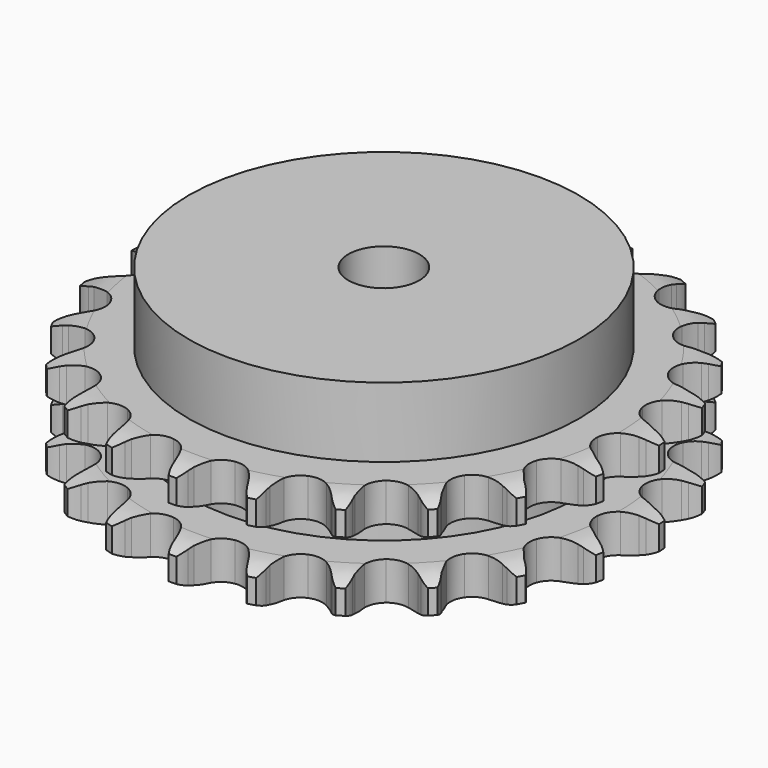
from build123d import *

# Parameters (mm, degrees)
PAD_DEPTH         = 30.3
SKETCH001_R       = 55
PAD001_DEPTH      = 50
SKETCH002_R       = 10
POCKET_DEPTH      = 0.001
POCKET_DEPTH_BACK = 50.001


with BuildPart() as part:
    # Sprocket → Pad (new body)
    with BuildSketch(Plane.XY):
        with BuildLine():
            ThreePointArc((-10.340591, 75.233389), (-8.706627, 73.474325), (-7.542965, 71.374317))
            Line((-7.542965, 71.374317), (-6.957807, 69.929158))
            ThreePointArc((-6.957807, 69.929158), (-6.022333, 68.005597), (-4.834996, 66.226432))
            ThreePointArc((-4.834996, 66.226432), (-2.694216, 64.47463), (0, 63.847774))
            ThreePointArc((0, 63.847774), (2.694216, 64.47463), (4.834996, 66.226432))
            ThreePointArc((4.834996, 66.226432), (6.022333, 68.005597), (6.957807, 69.929158))
            Line((6.957807, 69.929158), (7.542965, 71.374317))
            ThreePointArc((7.542965, 71.374317), (8.706627, 73.474325), (10.340591, 75.233389))
            ThreePointArc((10.340591, 75.233389), (11.439374, 73.098718), (11.993309, 70.762631))
            Line((11.993309, 70.762631), (12.166869, 69.213188))
            ThreePointArc((12.166869, 69.213188), (12.548682, 67.108571), (13.211976, 65.075043))
            ThreePointArc((13.211976, 65.075043), (14.80074, 62.810627), (17.225923, 61.480126))
            ThreePointArc((17.225923, 61.480126), (19.989354, 61.356845), (22.523379, 62.46611))
            Line((22.523379, 62.46611), (25.566453, 65.458801))
            ThreePointArc((25.566453, 65.458801), (26.027866, 66.087446), (26.519812, 66.692496))
            ThreePointArc((26.519812, 66.692496), (28.206897, 68.400678), (30.25486, 69.653673))
            ThreePointArc((30.25486, 69.653673), (30.736969, 67.301713), (30.640094, 64.902805))
            Line((30.640094, 64.902805), (30.389183, 63.363994))
            ThreePointArc((30.389183, 63.363994), (30.189019, 61.234409), (30.279076, 59.097335))
            ThreePointArc((30.279076, 59.097335), (31.197993, 56.488247), (33.174279, 54.552777))
            ThreePointArc((33.174279, 54.552777), (35.801974, 53.688504), (38.541306, 54.072962))
            Line((38.541306, 54.072962), (42.278953, 56.133664))
            ThreePointArc((42.278953, 56.133664), (42.892862, 56.61451), (43.529805, 57.064398))
            ThreePointArc((43.529805, 57.064398), (45.615191, 58.254066), (47.925263, 58.908062))
            ThreePointArc((47.925263, 58.908062), (47.754944, 56.513248), (47.014443, 54.229435))
            Line((47.014443, 54.229435), (46.35767, 52.815382))
            ThreePointArc((46.35767, 52.815382), (45.590374, 50.818771), (45.100516, 48.736648))
            ThreePointArc((45.100516, 48.736648), (45.281433, 45.976392), (46.66225, 43.579499))
            ThreePointArc((46.66225, 43.579499), (48.959324, 42.038332), (51.7008, 41.66947))
            Line((51.7008, 41.66947), (55.855816, 42.645351))
            ThreePointArc((55.855816, 42.645351), (56.57669, 42.942734), (57.311392, 43.204094))
            ThreePointArc((57.311392, 43.204094), (59.640415, 43.787016), (62.04127, 43.79351))
            ThreePointArc((62.04127, 43.79351), (61.231153, 41.533454), (59.901946, 39.534115))
            Line((59.901946, 39.534115), (58.888022, 38.349694))
            ThreePointArc((58.888022, 38.349694), (57.6105, 36.634138), (56.577057, 34.761388))
            ThreePointArc((56.577057, 34.761388), (56.006557, 32.054678), (56.689495, 29.374129))
            ThreePointArc((56.689495, 29.374129), (58.485586, 27.270369), (61.025883, 26.175544))
            Line((61.025883, 26.175544), (65.290109, 25.994227))
            ThreePointArc((65.290109, 25.994227), (66.064484, 26.086093), (66.842455, 26.139541))
            ThreePointArc((66.842455, 26.139541), (69.242382, 26.072483), (71.555959, 25.430994))
            ThreePointArc((71.555959, 25.430994), (70.166127, 23.473313), (68.346796, 21.906731))
            Line((68.346796, 21.906731), (67.050918, 21.039785))
            ThreePointArc((67.050918, 21.039785), (65.357918, 19.732518), (63.857537, 18.208034))
            ThreePointArc((63.857537, 18.208034), (62.57793, 15.755615), (62.51234, 12.990214))
            ThreePointArc((62.51234, 12.990214), (63.674239, 10.479887), (65.824955, 8.740298))
            Line((65.824955, 8.740298), (69.882133, 7.41523))
            ThreePointArc((69.882133, 7.41523), (70.652577, 7.294765), (71.41612, 7.136337))
            ThreePointArc((71.41612, 7.136337), (73.708959, 6.424274), (75.76367, 5.182377))
            ThreePointArc((75.76367, 5.182377), (73.897201, 3.672264), (71.722677, 2.654625))
            Line((71.722677, 2.654625), (70.240954, 2.169452))
            ThreePointArc((70.240954, 2.169452), (68.258039, 1.367427), (66.401995, 0.304273))
            ThreePointArc((66.401995, 0.304273), (64.508185, -1.711969), (63.698931, -4.357126))
            ThreePointArc((63.698931, -4.357126), (64.140465, -7.08784), (65.742091, -9.343176))
            Line((65.742091, -9.343176), (69.291319, -11.713721))
            ThreePointArc((69.291319, -11.713721), (70.000692, -12.037582), (70.693177, -12.396136))
            ThreePointArc((70.693177, -12.396136), (72.708879, -13.700395), (74.352336, -15.450593))
            ThreePointArc((74.352336, -15.450593), (72.147657, -16.401139), (69.779215, -16.794362))
            Line((69.779215, -16.794362), (68.22154, -16.86178))
            ThreePointArc((68.22154, -16.86178), (66.095773, -17.099079), (64.02172, -17.622054))
            ThreePointArc((64.02172, -17.622054), (61.654163, -19.052585), (60.161263, -21.381318))
            ThreePointArc((60.161263, -21.381318), (59.849687, -24.129894), (60.783437, -26.73371))
            Line((60.783437, -26.73371), (63.561485, -29.973919))
            ThreePointArc((63.561485, -29.973919), (64.157176, -30.477156), (64.727244, -31.009245))
            ThreePointArc((64.727244, -31.009245), (66.316314, -32.808968), (67.426629, -34.937663))
            ThreePointArc((67.426629, -34.937663), (65.047252, -35.258146), (62.660548, -34.997789))
            Line((62.660548, -34.997789), (61.142447, -34.64245))
            ThreePointArc((61.142447, -34.64245), (59.031486, -34.297425), (56.893248, -34.241434))
            ThreePointArc((56.893248, -34.241434), (54.227533, -34.980157), (52.161709, -36.819755))
            ThreePointArc((52.161709, -36.819755), (51.12013, -39.382344), (51.316754, -42.141527))
            Line((51.316754, -42.141527), (53.117586, -46.011088))
            ThreePointArc((53.117586, -46.011088), (53.555416, -46.65638), (53.960789, -47.322539))
            ThreePointArc((53.960789, -47.322539), (55.005371, -49.48425), (55.500198, -51.833567))
            ThreePointArc((55.500198, -51.833567), (53.12259, -51.500217), (50.894634, -50.605589))
            Line((50.894634, -50.605589), (49.528698, -49.853849))
            ThreePointArc((49.528698, -49.853849), (47.589104, -48.952088), (45.545264, -48.321283))
            ThreePointArc((45.545264, -48.321283), (42.779096, -48.313411), (40.293561, -49.52744))
            ThreePointArc((40.293561, -49.52744), (38.599228, -51.713986), (38.044141, -54.423899))
            Line((38.044141, -54.423899), (38.734199, -58.635825))
            ThreePointArc((38.734199, -58.635825), (38.981695, -59.375313), (39.192308, -60.126138))
            ThreePointArc((39.192308, -60.126138), (39.614932, -62.489511), (39.457571, -64.885212))
            ThreePointArc((39.457571, -64.885212), (37.258068, -63.922752), (35.354098, -62.460205))
            Line((35.354098, -62.460205), (34.241632, -61.367816))
            ThreePointArc((34.241632, -61.367816), (32.617255, -59.976198), (30.819396, -58.817364))
            ThreePointArc((30.819396, -58.817364), (28.157928, -58.063481), (25.437023, -58.5619))
            ThreePointArc((25.437023, -58.5619), (23.215598, -60.210238), (21.949969, -62.6699))
            Line((21.949969, -62.6699), (21.478074, -66.911811))
            ThreePointArc((21.478074, -66.911811), (21.51688, -67.69065), (21.517113, -68.470456))
            ThreePointArc((21.517113, -68.470456), (21.286435, -70.860211), (20.488557, -73.124617))
            ThreePointArc((20.488557, -73.124617), (18.630285, -71.604429), (17.191511, -69.682432))
            Line((17.191511, -69.682432), (16.41502, -68.330412))
            ThreePointArc((16.41502, -68.330412), (15.226334, -66.552149), (13.807794, -64.95123))
            ThreePointArc((13.807794, -64.95123), (11.448416, -63.507248), (8.693937, -63.253093))
            ThreePointArc((8.693937, -63.253093), (6.110172, -64.240973), (4.227868, -66.267961))
            Line((4.227868, -66.267961), (2.629018, -70.225255))
            ThreePointArc((2.629018, -70.225255), (2.456257, -70.985682), (2.246092, -71.736633))
            ThreePointArc((2.246092, -71.736633), (1.37922, -73.975534), (0, -75.940705))
            ThreePointArc((0, -75.940705), (-1.37922, -73.975534), (-2.246092, -71.736633))
            Line((-2.246092, -71.736633), (-2.629018, -70.225255))
            ThreePointArc((-2.629018, -70.225255), (-3.293854, -68.19223), (-4.227868, -66.267961))
            ThreePointArc((-4.227868, -66.267961), (-6.110172, -64.240973), (-8.693937, -63.253093))
            ThreePointArc((-8.693937, -63.253093), (-11.448416, -63.507248), (-13.807794, -64.95123))
            Line((-13.807794, -64.95123), (-16.41502, -68.330412))
            ThreePointArc((-16.41502, -68.330412), (-16.786535, -69.016031), (-17.191511, -69.682432))
            ThreePointArc((-17.191511, -69.682432), (-18.630285, -71.604429), (-20.488557, -73.124617))
            ThreePointArc((-20.488557, -73.124617), (-21.286435, -70.860211), (-21.517113, -68.470456))
            Line((-21.517113, -68.470456), (-21.478074, -66.911811))
            ThreePointArc((-21.478074, -66.911811), (-21.569753, -64.774806), (-21.949969, -62.6699))
            ThreePointArc((-21.949969, -62.6699), (-23.215598, -60.210238), (-25.437023, -58.5619))
            ThreePointArc((-25.437023, -58.5619), (-28.157928, -58.063481), (-30.819396, -58.817364))
            Line((-30.819396, -58.817364), (-34.241632, -61.367816))
            ThreePointArc((-34.241632, -61.367816), (-34.784347, -61.927776), (-35.354098, -62.460205))
            ThreePointArc((-35.354098, -62.460205), (-37.258068, -63.922752), (-39.457571, -64.885212))
            ThreePointArc((-39.457571, -64.885212), (-39.614932, -62.489511), (-39.192308, -60.126138))
            Line((-39.192308, -60.126138), (-38.734199, -58.635825))
            ThreePointArc((-38.734199, -58.635825), (-38.245921, -56.553331), (-38.044141, -54.423899))
            ThreePointArc((-38.044141, -54.423899), (-38.599228, -51.713986), (-40.293561, -49.52744))
            ThreePointArc((-40.293561, -49.52744), (-42.779096, -48.313411), (-45.545264, -48.321283))
            Line((-45.545264, -48.321283), (-49.528698, -49.853849))
            ThreePointArc((-49.528698, -49.853849), (-50.202364, -50.246622), (-50.894634, -50.605589))
            ThreePointArc((-50.894634, -50.605589), (-53.12259, -51.500217), (-55.500198, -51.833567))
            ThreePointArc((-55.500198, -51.833567), (-55.005371, -49.48425), (-53.960789, -47.322539))
            Line((-53.960789, -47.322539), (-53.117586, -46.011088))
            ThreePointArc((-53.117586, -46.011088), (-52.085565, -44.137554), (-51.316754, -42.141527))
            ThreePointArc((-51.316754, -42.141527), (-51.12013, -39.382344), (-52.161709, -36.819755))
            ThreePointArc((-52.161709, -36.819755), (-54.227533, -34.980157), (-56.893248, -34.241434))
            Line((-56.893248, -34.241434), (-61.142447, -34.64245))
            ThreePointArc((-61.142447, -34.64245), (-61.8971, -34.838905), (-62.660548, -34.997789))
            ThreePointArc((-62.660548, -34.997789), (-65.047252, -35.258146), (-67.426629, -34.937663))
            ThreePointArc((-67.426629, -34.937663), (-66.316314, -32.808968), (-64.727244, -31.009245))
            Line((-64.727244, -31.009245), (-63.561485, -29.973919))
            ThreePointArc((-63.561485, -29.973919), (-62.06226, -28.448297), (-60.783437, -26.73371))
            ThreePointArc((-60.783437, -26.73371), (-59.849687, -24.129894), (-60.161263, -21.381318))
            ThreePointArc((-60.161263, -21.381318), (-61.654163, -19.052585), (-64.02172, -17.622054))
            Line((-64.02172, -17.622054), (-68.22154, -16.86178))
            ThreePointArc((-68.22154, -16.86178), (-69.001212, -16.847346), (-69.779215, -16.794362))
            ThreePointArc((-69.779215, -16.794362), (-72.147657, -16.401139), (-74.352336, -15.450593))
            ThreePointArc((-74.352336, -15.450593), (-72.708879, -13.700395), (-70.693177, -12.396136))
            Line((-70.693177, -12.396136), (-69.291319, -11.713721))
            ThreePointArc((-69.291319, -11.713721), (-67.436082, -10.649159), (-65.742091, -9.343176))
            ThreePointArc((-65.742091, -9.343176), (-64.140465, -7.08784), (-63.698931, -4.357126))
            ThreePointArc((-63.698931, -4.357126), (-64.508185, -1.711969), (-66.401995, 0.304273))
            Line((-66.401995, 0.304273), (-70.240954, 2.169452))
            ThreePointArc((-70.240954, 2.169452), (-70.987819, 2.393703), (-71.722677, 2.654625))
            ThreePointArc((-71.722677, 2.654625), (-73.897201, 3.672264), (-75.76367, 5.182377))
            ThreePointArc((-75.76367, 5.182377), (-73.708959, 6.424274), (-71.41612, 7.136337))
            Line((-71.41612, 7.136337), (-69.882133, 7.41523))
            ThreePointArc((-69.882133, 7.41523), (-67.808478, 7.939778), (-65.824955, 8.740298))
            ThreePointArc((-65.824955, 8.740298), (-63.674239, 10.479887), (-62.51234, 12.990214))
            ThreePointArc((-62.51234, 12.990214), (-62.57793, 15.755615), (-63.857537, 18.208034))
            Line((-63.857537, 18.208034), (-67.050918, 21.039785))
            ThreePointArc((-67.050918, 21.039785), (-67.709585, 21.457223), (-68.346796, 21.906731))
            ThreePointArc((-68.346796, 21.906731), (-70.166127, 23.473313), (-71.555959, 25.430994))
            ThreePointArc((-71.555959, 25.430994), (-69.242382, 26.072483), (-66.842455, 26.139541))
            Line((-66.842455, 26.139541), (-65.290109, 25.994227))
            ThreePointArc((-65.290109, 25.994227), (-63.151829, 25.939858), (-61.025883, 26.175544))
            ThreePointArc((-61.025883, 26.175544), (-58.485586, 27.270369), (-56.689495, 29.374129))
            ThreePointArc((-56.689495, 29.374129), (-56.006557, 32.054678), (-56.577057, 34.761388))
            Line((-56.577057, 34.761388), (-58.888022, 38.349694))
            ThreePointArc((-58.888022, 38.349694), (-59.409641, 38.929358), (-59.901946, 39.534115))
            ThreePointArc((-59.901946, 39.534115), (-61.231153, 41.533454), (-62.04127, 43.79351))
            ThreePointArc((-62.04127, 43.79351), (-59.640415, 43.787016), (-57.311392, 43.204094))
            Line((-57.311392, 43.204094), (-55.855816, 42.645351))
            ThreePointArc((-55.855816, 42.645351), (-53.811498, 42.016097), (-51.7008, 41.66947))
            ThreePointArc((-51.7008, 41.66947), (-48.959324, 42.038332), (-46.66225, 43.579499))
            ThreePointArc((-46.66225, 43.579499), (-45.281433, 45.976392), (-45.100516, 48.736648))
            Line((-45.100516, 48.736648), (-46.35767, 52.815382))
            ThreePointArc((-46.35767, 52.815382), (-46.703555, 53.514281), (-47.014443, 54.229435))
            ThreePointArc((-47.014443, 54.229435), (-47.754944, 56.513248), (-47.925263, 58.908062))
            ThreePointArc((-47.925263, 58.908062), (-45.615191, 58.254066), (-43.529805, 57.064398))
            Line((-43.529805, 57.064398), (-42.278953, 56.133664))
            ThreePointArc((-42.278953, 56.133664), (-40.480215, 54.976195), (-38.541306, 54.072962))
            ThreePointArc((-38.541306, 54.072962), (-35.801974, 53.688504), (-33.174279, 54.552777))
            ThreePointArc((-33.174279, 54.552777), (-31.197993, 56.488247), (-30.279076, 59.097335))
            Line((-30.279076, 59.097335), (-30.389183, 63.363994))
            ThreePointArc((-30.389183, 63.363994), (-30.53368, 64.130295), (-30.640094, 64.902805))
            ThreePointArc((-30.640094, 64.902805), (-30.736969, 67.301713), (-30.25486, 69.653673))
            ThreePointArc((-30.25486, 69.653673), (-28.206897, 68.400678), (-26.519812, 66.692496))
            Line((-26.519812, 66.692496), (-25.566453, 65.458801))
            ThreePointArc((-25.566453, 65.458801), (-24.146699, 63.858959), (-22.523379, 62.46611))
            ThreePointArc((-22.523379, 62.46611), (-19.989354, 61.356845), (-17.225923, 61.480126))
            ThreePointArc((-17.225923, 61.480126), (-14.80074, 62.810627), (-13.211976, 65.075043))
            Line((-13.211976, 65.075043), (-12.166869, 69.213188))
            ThreePointArc((-12.166869, 69.213188), (-12.099262, 69.990058), (-11.993309, 70.762631))
            ThreePointArc((-11.993309, 70.762631), (-11.439374, 73.098718), (-10.340591, 75.233389))
        make_face()
    extrude(amount=PAD_DEPTH)

    # Sketch → Groove (revolve, cut)
    with BuildSketch(Plane.XZ):
        with BuildLine():
            ThreePointArc((66.014719, 0), (70.373618, 0.506758), (74.5, 2))
            Line((74.5, 2), (74.5, 8.8))
            ThreePointArc((74.5, 8.8), (70.373618, 10.293242), (66.014719, 10.8))
            Line((55, 10.8), (66.014719, 10.8))
            Line((55, 19.5), (55, 10.8))
            Line((66.014719, 19.5), (55, 19.5))
            ThreePointArc((66.014719, 19.5), (70.373618, 20.006758), (74.5, 21.5))
            Line((74.5, 21.5), (74.5, 28.3))
            ThreePointArc((74.5, 28.3), (70.373618, 29.793242), (66.014719, 30.3))
            Line((66.014719, 30.3), (84.5, 30.3))
            Line((84.5, 30.3), (84.5, 0))
            Line((66.014719, 0), (84.5, 0))
        make_face()
    revolve(axis=Axis((0, 0, 0), (0, 0, 1)), mode=Mode.SUBTRACT)

    # Sketch001 → Pad001 (join)
    with BuildSketch(Plane.XY):
        Circle(SKETCH001_R)
    extrude(amount=PAD001_DEPTH)

    # Sketch002 → Pocket (cut, two sides)
    with BuildSketch(Plane.XY) as pocket_sk:
        Circle(SKETCH002_R)
    extrude(amount=-POCKET_DEPTH, mode=Mode.SUBTRACT)
    extrude(pocket_sk.sketch, amount=POCKET_DEPTH_BACK, mode=Mode.SUBTRACT)


solid = part.part
